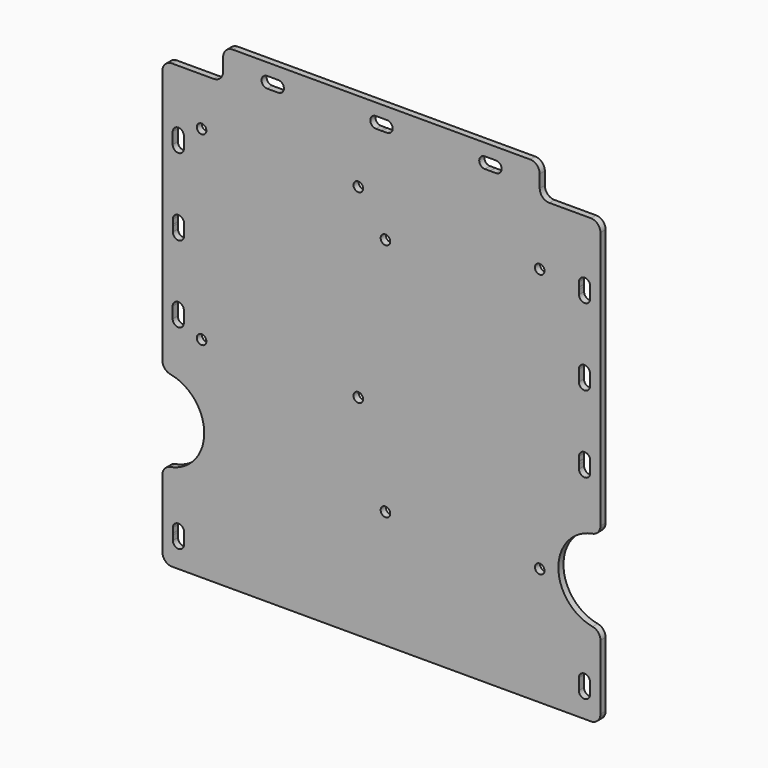
from build123d import *

# Parameters (mm, degrees)
F0_R     = 1.5
F1_DEPTH = 2


with BuildPart() as f1:
    # F0 (on Front) → F1 (new body)
    with BuildSketch(Plane.XZ):
        with BuildLine():
            ThreePointArc((-46.5, 108.5), (-48.62132, 107.62132), (-49.5, 105.5))
            Line((-49.5, 105.5), (-49.5, 101.5))
            ThreePointArc((-49.5, 101.5), (-50.37868, 99.37868), (-52.5, 98.5))
            Line((-52.5, 98.5), (-65.5, 98.5))
            ThreePointArc((-65.5, 98.5), (-67.62132, 97.62132), (-68.5, 95.5))
            Line((-68.5, 95.5), (-68.5, 15.731583))
            ThreePointArc((-68.5, 15.731583), (-67.806689, 13.813462), (-66.047208, 12.781911))
            ThreePointArc((-66.047208, 12.781911), (-55.418443, 0), (-66.047208, -12.781911))
            ThreePointArc((-66.047208, -12.781911), (-67.806689, -13.813462), (-68.5, -15.731583))
            Line((-68.5, -15.731583), (-68.5, -37.032465))
            ThreePointArc((-68.5, -37.032465), (-67.62132, -39.153786), (-65.5, -40.032465))
            Line((-65.5, -40.032465), (65.5, -40.032465))
            ThreePointArc((65.5, -40.032465), (67.62132, -39.153786), (68.5, -37.032465))
            Line((68.5, -37.032465), (68.5, -16.733201))
            ThreePointArc((68.5, -16.733201), (67.800895, -14.808134), (66.029412, -13.780283))
            ThreePointArc((66.029412, -13.780283), (55.323529, -0.984306), (66.029412, 11.811671))
            ThreePointArc((66.029412, 11.811671), (67.800895, 12.839522), (68.5, 14.764589))
            Line((68.5, 14.764589), (68.5, 95.5))
            ThreePointArc((68.5, 95.5), (67.62132, 97.62132), (65.5, 98.5))
            Line((65.5, 98.5), (52.5, 98.5))
            ThreePointArc((52.5, 98.5), (50.37868, 99.37868), (49.5, 101.5))
            Line((49.5, 101.5), (49.5, 105.5))
            ThreePointArc((49.5, 105.5), (48.62132, 107.62132), (46.5, 108.5))
            Line((46.5, 108.5), (0, 108.5))
            Line((0, 108.5), (-46.5, 108.5))
        make_face()
        with BuildLine():
            ThreePointArc((-65.227546, -31.279437), (-65.25, -31), (-65.227546, -30.720563))
            Line((-65.227546, -30.720563), (-65.227546, -29.249952))
            ThreePointArc((-65.227546, -29.249952), (-63.477546, -27.499952), (-61.727546, -29.249952))
            Line((-61.727546, -29.249952), (-61.727546, -32.749317))
            ThreePointArc((-61.727546, -32.749317), (-63.477546, -34.499317), (-65.227546, -32.749317))
            Line((-65.227546, -32.749317), (-65.227546, -31.279437))
        make_face(mode=Mode.SUBTRACT)
        with BuildLine():
            ThreePointArc((-61.793502, 30.38777), (-61.76091, 30.195101), (-61.75, 30))
            ThreePointArc((-61.75, 30), (-61.76091, 29.804899), (-61.793502, 29.61223))
            Line((-61.793502, 29.61223), (-61.793502, 28.240838))
            ThreePointArc((-61.793502, 28.240838), (-63.543502, 26.490838), (-65.293502, 28.240838))
            Line((-65.293502, 28.240838), (-65.293502, 31.740202))
            ThreePointArc((-65.293502, 31.740202), (-63.543502, 33.490202), (-61.793502, 31.740202))
            Line((-61.793502, 31.740202), (-61.793502, 30.38777))
        make_face(mode=Mode.SUBTRACT)
        with Locations((-56.25, 25.5)):
            Circle(F0_R, mode=Mode.SUBTRACT)
        with Locations((-7.25, 25.5)):
            Circle(F0_R, mode=Mode.SUBTRACT)
        with Locations((1.25, -3.244149)):
            Circle(F0_R, mode=Mode.SUBTRACT)
        with BuildLine():
            ThreePointArc((65.227546, -30.720563), (65.244377, -30.859831), (65.25, -31))
            ThreePointArc((65.25, -31), (65.244377, -31.140169), (65.227546, -31.279437))
            Line((65.227546, -31.279437), (65.227546, -32.749317))
            ThreePointArc((65.227546, -32.749317), (63.477546, -34.499317), (61.727546, -32.749317))
            Line((61.727546, -32.749317), (61.727546, -29.249952))
            ThreePointArc((61.727546, -29.249952), (63.477546, -27.499952), (65.227546, -29.249952))
            Line((65.227546, -29.249952), (65.227546, -30.720563))
        make_face(mode=Mode.SUBTRACT)
        with Locations((49.5, -3.244149)):
            Circle(F0_R, mode=Mode.SUBTRACT)
        with BuildLine():
            ThreePointArc((61.793502, 29.61223), (61.75, 30), (61.793502, 30.38777))
            Line((61.793502, 30.38777), (61.793502, 31.740202))
            ThreePointArc((61.793502, 31.740202), (63.543502, 33.490202), (65.293502, 31.740202))
            Line((65.293502, 31.740202), (65.293502, 28.240838))
            ThreePointArc((65.293502, 28.240838), (63.543502, 26.490838), (61.793502, 28.240838))
            Line((61.793502, 28.240838), (61.793502, 29.61223))
        make_face(mode=Mode.SUBTRACT)
        with BuildLine():
            ThreePointArc((-65.230854, 53.741844), (-65.25, 54), (-65.230854, 54.258156))
            Line((-65.230854, 54.258156), (-65.230854, 55.701408))
            ThreePointArc((-65.230854, 55.701408), (-63.480854, 57.451408), (-61.730854, 55.701408))
            Line((-61.730854, 55.701408), (-61.730854, 52.202043))
            ThreePointArc((-61.730854, 52.202043), (-63.480854, 50.452043), (-65.230854, 52.202043))
            Line((-65.230854, 52.202043), (-65.230854, 53.741844))
        make_face(mode=Mode.SUBTRACT)
        with BuildLine():
            Line((-61.783352, 79.749682), (-61.783352, 78.340028))
            ThreePointArc((-61.783352, 78.340028), (-61.758358, 78.17083), (-61.75, 78))
            ThreePointArc((-61.75, 78), (-61.758358, 77.82917), (-61.783352, 77.659972))
            Line((-61.783352, 77.659972), (-61.783352, 76.250318))
            ThreePointArc((-61.783352, 76.250318), (-63.533352, 74.500318), (-65.283352, 76.250318))
            Line((-65.283352, 76.250318), (-65.283352, 79.749682))
            ThreePointArc((-65.283352, 79.749682), (-63.533352, 81.499682), (-61.783352, 79.749682))
        make_face(mode=Mode.SUBTRACT)
        with Locations((-56.25, 83.5)):
            Circle(F0_R, mode=Mode.SUBTRACT)
        with Locations((-7.25, 83.5)):
            Circle(F0_R, mode=Mode.SUBTRACT)
        with BuildLine():
            Line((-35.75, 104.75), (-34, 104.75))
            Line((-34, 104.75), (-32.25, 104.75))
            ThreePointArc((-32.25, 104.75), (-30.5, 103), (-32.25, 101.25))
            Line((-32.25, 101.25), (-34, 101.25))
            Line((-34, 101.25), (-35.75, 101.25))
            ThreePointArc((-35.75, 101.25), (-37.5, 103), (-35.75, 104.75))
        make_face(mode=Mode.SUBTRACT)
        with BuildLine():
            ThreePointArc((65.230854, 54.258156), (65.245207, 54.129432), (65.25, 54))
            ThreePointArc((65.25, 54), (65.245207, 53.870568), (65.230854, 53.741844))
            Line((65.230854, 53.741844), (65.230854, 52.202043))
            ThreePointArc((65.230854, 52.202043), (63.480854, 50.452043), (61.730854, 52.202043))
            Line((61.730854, 52.202043), (61.730854, 55.701408))
            ThreePointArc((61.730854, 55.701408), (63.480854, 57.451408), (65.230854, 55.701408))
            Line((65.230854, 55.701408), (65.230854, 54.258156))
        make_face(mode=Mode.SUBTRACT)
        with Locations((1.25, 71.655851)):
            Circle(F0_R, mode=Mode.SUBTRACT)
        with BuildLine():
            ThreePointArc((0.281149, 101.272732), (0, 101.25), (-0.281149, 101.272732))
            Line((-0.281149, 101.272732), (-1.743335, 101.272732))
            ThreePointArc((-1.743335, 101.272732), (-3.493335, 103.022732), (-1.743335, 104.772732))
            Line((-1.743335, 104.772732), (1.756665, 104.772732))
            ThreePointArc((1.756665, 104.772732), (3.506665, 103.022732), (1.756665, 101.272732))
            Line((1.756665, 101.272732), (0.281149, 101.272732))
        make_face(mode=Mode.SUBTRACT)
        with BuildLine():
            ThreePointArc((34.072565, 101.251505), (34, 101.25), (33.927435, 101.251505))
            Line((33.927435, 101.251505), (32.328993, 101.251505))
            ThreePointArc((32.328993, 101.251505), (30.578993, 103.001505), (32.328993, 104.751505))
            Line((32.328993, 104.751505), (35.828993, 104.751505))
            ThreePointArc((35.828993, 104.751505), (37.578993, 103.001505), (35.828993, 101.251505))
            Line((35.828993, 101.251505), (34.072565, 101.251505))
        make_face(mode=Mode.SUBTRACT)
        with Locations((49.5, 79.255851)):
            Circle(F0_R, mode=Mode.SUBTRACT)
        with BuildLine():
            ThreePointArc((61.783352, 77.659972), (61.75, 78), (61.783352, 78.340028))
            Line((61.783352, 78.340028), (61.783352, 79.749682))
            ThreePointArc((61.783352, 79.749682), (63.533352, 81.499682), (65.283352, 79.749682))
            Line((65.283352, 79.749682), (65.283352, 76.250318))
            ThreePointArc((65.283352, 76.250318), (63.533352, 74.500318), (61.783352, 76.250318))
            Line((61.783352, 76.250318), (61.783352, 77.659972))
        make_face(mode=Mode.SUBTRACT)
    extrude(amount=F1_DEPTH)


solid = f1.part
